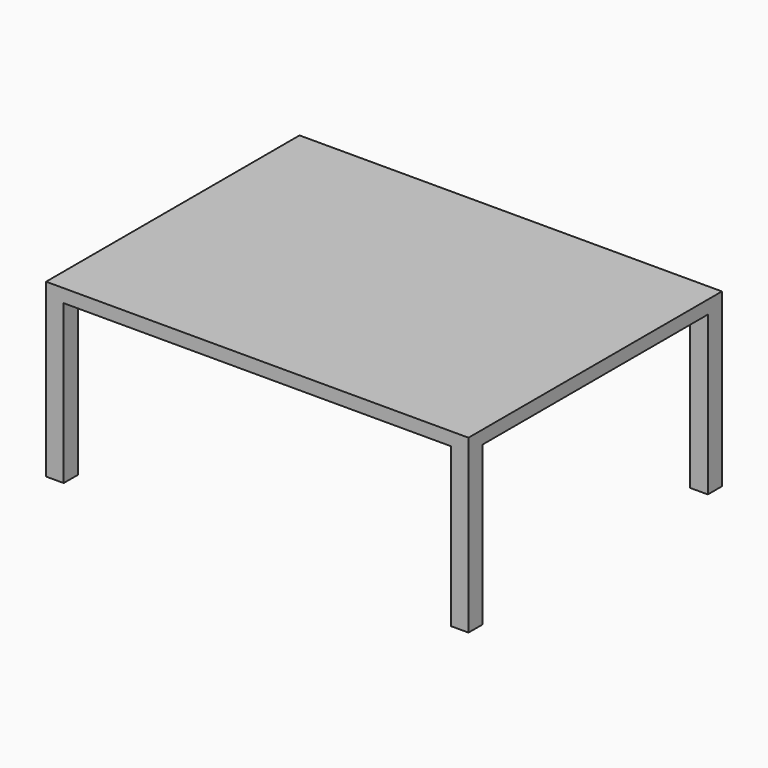
from build123d import *

# Parameters (mm, degrees)
F0_W     = 1219.2
F0_H     = 914.4
F1_DEPTH = 19.05
F2_W     = 50.8
F2_H     = 50.8
F3_DEPTH = 457.2


with BuildPart() as f1:
    # F0 (on Top) → F1 (new body, symmetric)
    with BuildSketch(Plane.XY):
        Rectangle(F0_W, F0_H)
    extrude(amount=F1_DEPTH, both=True)

    # F2 (on face) → F3 (join)
    with BuildSketch(Plane(origin=(0, 0, -19.05), x_dir=(1, 0, 0), z_dir=(0, 0, -1))):
        with Locations((584.2, 431.8)):
            Rectangle(F2_W, F2_H)
        with Locations((584.2, -431.8)):
            Rectangle(F2_W, F2_H)
        with Locations((-584.2, -431.8)):
            Rectangle(F2_W, F2_H)
        with Locations((-584.2, 431.8)):
            Rectangle(F2_W, F2_H)
    extrude(amount=F3_DEPTH)


solid = f1.part
